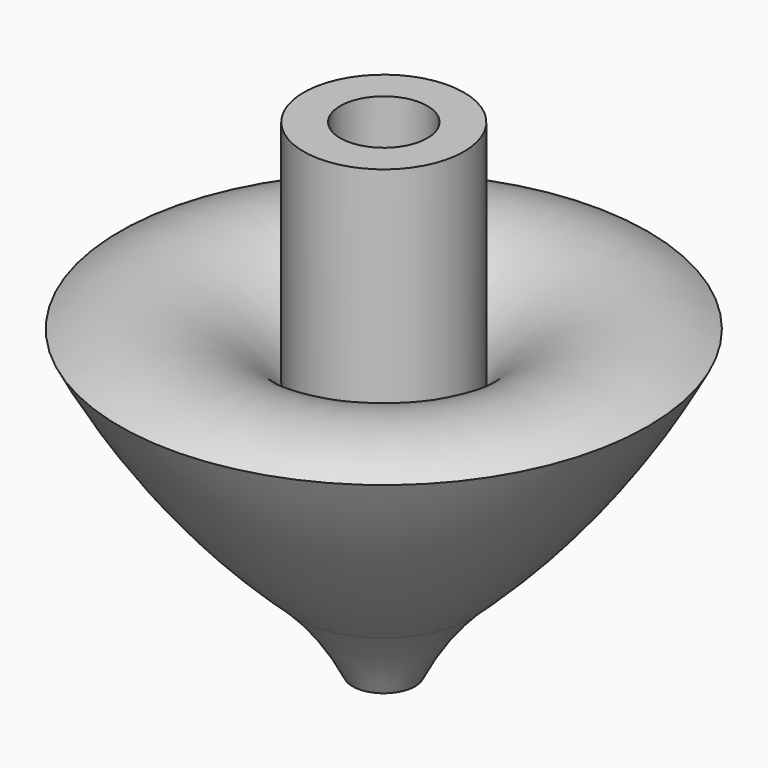
from build123d import *

# Parameters (mm, degrees)
F3_DEPTH = 22.225
F2_R     = 4.7625
F4_DEPTH = 9.525


with BuildPart() as f1:
    # F0 (on Front) → F1 (revolve)
    with BuildSketch(Plane.XZ):
        with BuildLine():
            ThreePointArc((3.412974067, 0), (6.0780676214, 4.490586962), (9.4752153529, 8.4563759387))
            ThreePointArc((9.4752153529, 8.4563759387), (20.2789307242, 19.9953148359), (28.8515333086, 33.2760475576))
            ThreePointArc((28.8515333086, 33.2760475576), (17.7106806745, 34.9519719001), (8.7568536401, 28.1141139567))
            Line((8.7568536401, 28.1141139567), (8.7568536401, 53.1863681972))
            Line((8.7568536401, 53.1863681972), (0, 53.1863681972))
            Line((0, 53.1863681972), (0, 0))
            Line((0, 0), (3.412974067, 0))
        make_face()
    revolve(axis=Axis((0, 0, 26.5931840986), (0, 0, -1)))

    # F3 (cut): a face of the model
    f3_faces = [f1.faces().sort_by_distance(p)[0] for p in [
        (0, 0, 0),
    ]]
    extrude(f3_faces, amount=-F3_DEPTH, mode=Mode.SUBTRACT)

    # F2 (on face) → F4 (cut)
    with BuildSketch(Plane.XY.offset(53.1863681972)):
        Circle(F2_R)
    extrude(amount=-F4_DEPTH, mode=Mode.SUBTRACT)


solid = f1.part
